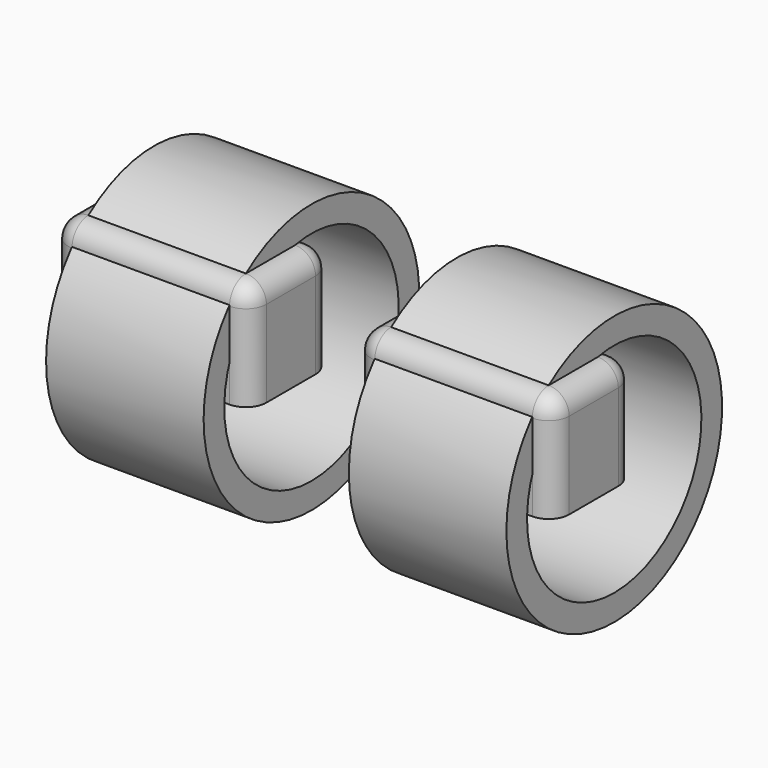
from build123d import *

# Parameters (mm, degrees)
F0_W      = 49.2286197841
F0_H      = 26.5464654658
F1_DEPTH  = 25.4
F2_R      = 5.08
F3_FACE_W = 39.0686197841
F3_FACE_H = 15.24
F1_FACE_W = 39.0686197841
F1_FACE_H = 15.24


with BuildPart() as f1:
    # F0 (on Front) → F1 (new body)
    with BuildSketch(Plane.XZ):
        with Locations((-37.5417005271, 7.6879252447)):
            Rectangle(F0_W, F0_H)
        with Locations((-37.5417005271, 7.6879252447)):
            Rectangle(F0_W, F0_H)
    extrude(amount=F1_DEPTH)

    # F2
    f2_edges = [f1.edges().sort_by_distance(p)[0] for p in [
        (-37.541701, 0, 20.961158),
        (-12.927391, -12.7, 20.961158),
        (-37.541701, -25.4, 20.961158),
        (-62.15601, -12.7, 20.961158),
        (-62.15601, -25.4, 7.687925),
        (-12.927391, -25.4, 7.687925),
        (-12.927391, 0, 7.687925),
        (-62.15601, 0, 7.687925),
    ]]
    fillet(f2_edges, radius=F2_R)


with BuildPart() as f3_1:
    # F3: instance of F1
    add(f1.part.mirror(Plane.YZ))


with BuildPart() as f4:
    # F3_face (on face) → F4 (revolve)
    with BuildSketch(Plane(origin=(37.5417005271, -12.7, 20.9611579776), x_dir=(1, 0, 0), z_dir=(0, 0, 1))):
        Rectangle(F3_FACE_W, F3_FACE_H)
    revolve(axis=Axis((-37.5417005271, 0, -5.5853074882), (1, 0, 0)))


with BuildPart() as f4b:
    # F1_face (on face) → F4, piece 2 (revolve)
    with BuildSketch(Plane(origin=(-37.5417005271, -12.7, 20.9611579776), x_dir=(1, 0, 0), z_dir=(0, 0, 1))):
        Rectangle(F1_FACE_W, F1_FACE_H)
    revolve(axis=Axis((-37.5417005271, 0, -5.5853074882), (1, 0, 0)))


solid = Compound([f1.part, f3_1.part, f4.part, f4b.part])
